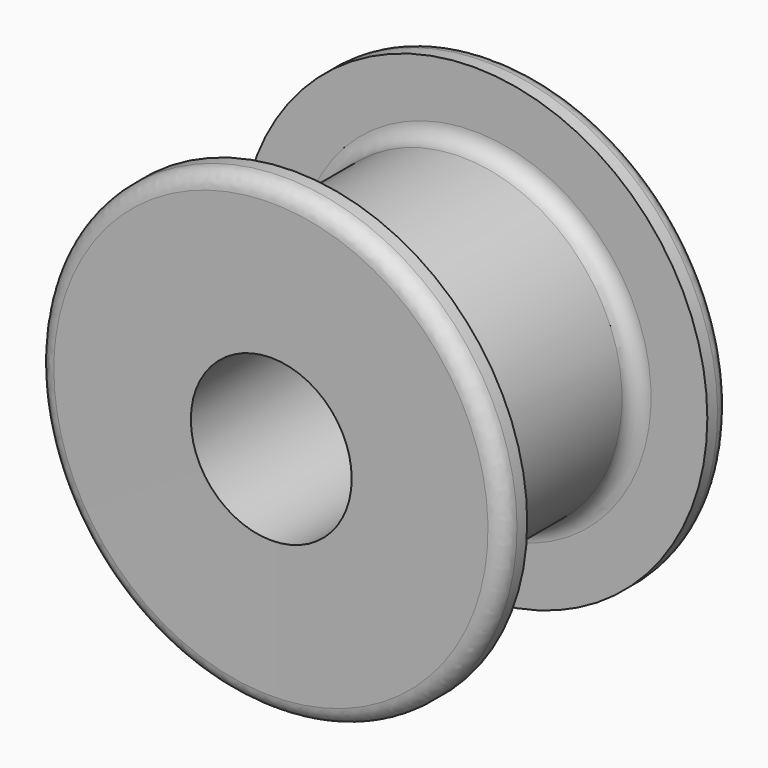
from build123d import *

# Parameters (mm, degrees)
F3_R     = 2
F4_R     = 2
F5_R     = 10
F6_DEPTH = 20


with BuildPart() as f1:
    # F0 (on Top) → F1 (revolve)
    with BuildSketch(Plane.XY):
        Polygon((-20, -14), (-29, -14), (-29, -17.5904668427), (0, -17.5), (0, 0), (-20, 0), align=None)
    revolve(axis=Axis((0, -8.75, 0), (0, -1, 0)))

    # F2: F1 across plane


with BuildPart() as f1_1:
    add(f1.part)
    add(f1.part.mirror(Plane.XZ))

    # F3
    f3_edges = [f1_1.edges().sort_by_distance(p)[0] for p in [
        (20, 14, 0),
    ]]
    fillet(f3_edges, radius=F3_R)

    # F4
    f4_edges = [f1_1.edges().sort_by_distance(p)[0] for p in [
        (20, -14, 0),
        (29, -17.590467, 0),
        (29, 17.590467, 0),
    ]]
    fillet(f4_edges, radius=F4_R)

    # F5 (on Front) → F6 (cut, symmetric)
    with BuildSketch(Plane.XZ):
        Circle(F5_R)
    extrude(amount=F6_DEPTH, both=True, mode=Mode.SUBTRACT)


solid = f1_1.part
